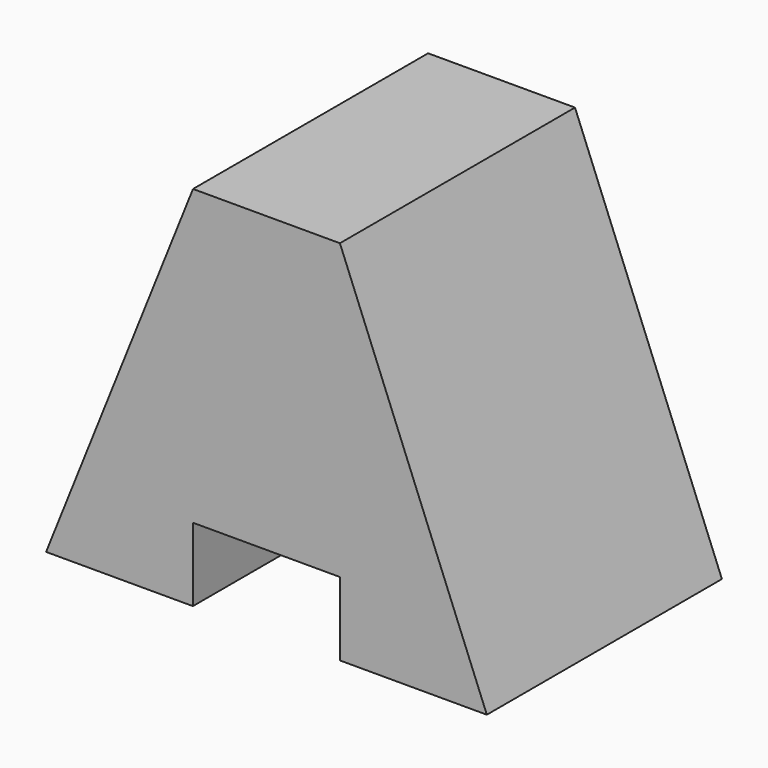
from build123d import *

# Parameters (mm, degrees)
F1_DEPTH = 25.4
F3_DEPTH = 25.4


with BuildPart() as f1:
    # F0 (on Front) → F1 (new body)
    with BuildSketch(Plane.XZ):
        Polygon((0, 31.75), (0, 0), (12.690173, 0), (12.690173, 6.35), (25.390173, 6.35), (25.390173, 0), (38.1, 0), (38.1, 31.75), align=None)
    extrude(amount=F1_DEPTH)

    # F2 (on Front) → F3 (cut)
    with BuildSketch(Plane.XZ):
        Polygon((0, 31.75), (0, 0), (12.7, 31.75), align=None)
        Polygon((25.4, 31.75), (38.1, 0), (38.1, 31.75), align=None)
    extrude(amount=F3_DEPTH, mode=Mode.SUBTRACT)


solid = f1.part
